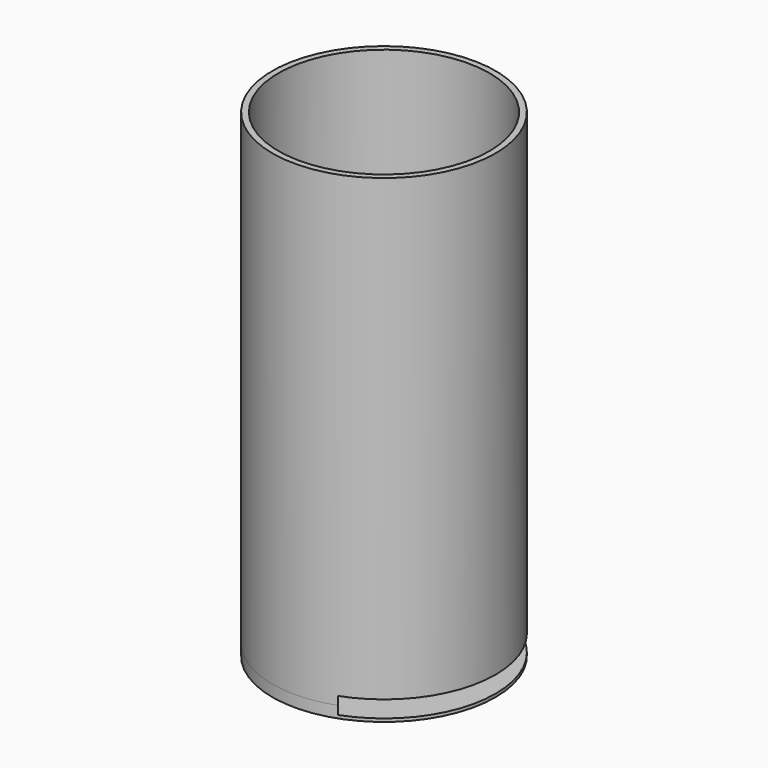
from build123d import *

# Parameters (mm, degrees)
F0_R     = 74.008628
F1_DEPTH = 309.88
F2_R     = 69.983842
F3_DEPTH = 415.798
F4_R     = 20.290175
F5_DEPTH = 138.938
F6_DEPTH = 7.62
F7_W     = 139.15725
F7_H     = 11.103896
F8_DEPTH = 97.282


with BuildPart() as f1:
    # F0 (on Top) → F1 (new body)
    with BuildSketch(Plane.XY):
        Circle(F0_R)
    extrude(amount=F1_DEPTH)

    # F2 (on face) → F3 (cut)
    with BuildSketch(Plane.XY.offset(309.88)):
        Circle(F2_R)
    extrude(amount=-F3_DEPTH, mode=Mode.SUBTRACT)

    # F4 (on Right) → F5 (cut)
    with BuildSketch(Plane.YZ):
        with Locations((0, 207.585201)):
            Circle(F4_R)
    extrude(amount=-F5_DEPTH, mode=Mode.SUBTRACT)

    # F0 (on Top) → F6 (join)
    with BuildSketch(Plane.XY):
        Circle(F0_R)
    extrude(amount=-F6_DEPTH)

    # F7 (on Right) → F8 (cut)
    with BuildSketch(Plane.YZ):
        Rectangle(F7_W, F7_H)
    extrude(amount=F8_DEPTH, mode=Mode.SUBTRACT)


solid = f1.part
